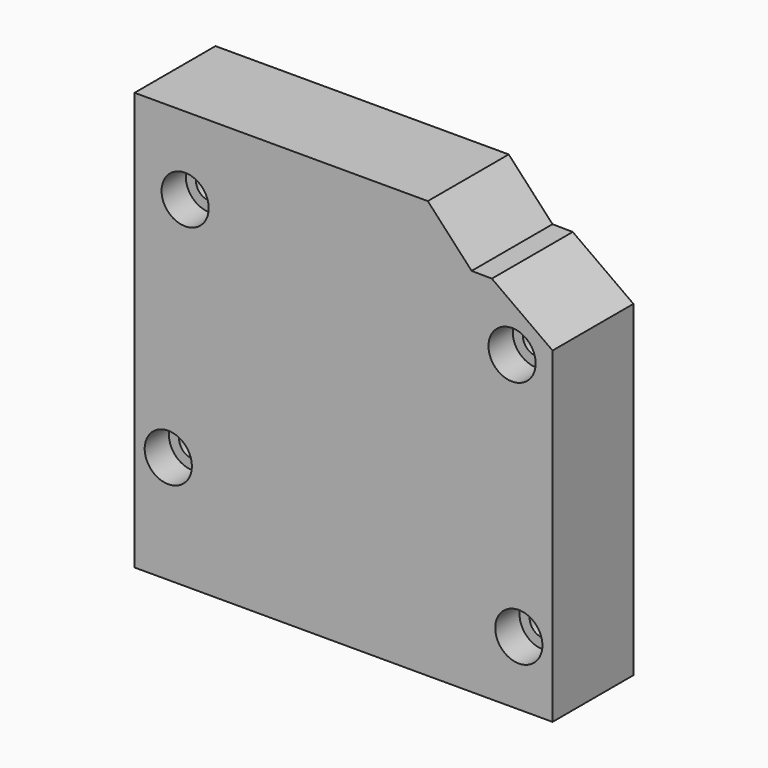
from build123d import *

# Parameters (mm, degrees)
F1_DEPTH       = 30
F3_D           = 8
F3_DEPTH       = 45
F3_CBORE_D     = 14
F3_CBORE_DEPTH = 9
F5_R           = 21
F6_DEPTH       = 25


with BuildPart() as f1:
    # F0 (on Front) → F1 (new body)
    with BuildSketch(Plane.XZ):
        Polygon((87, 0), (0, 0), (0, -124), (124, -124), (124, -27), (106, -14.071459), (100, -14), align=None)
    extrude(amount=F1_DEPTH)

    # F3
    with Locations(Plane.XZ.offset(30)):
        with Locations((15, -23), (10, -92), (112, -32), (114, -105)):
            CounterBoreHole(F3_D / 2, F3_CBORE_D / 2, F3_CBORE_DEPTH, depth=F3_DEPTH)

    # F5 (on face) → F6 (cut)
    with BuildSketch(Plane(origin=(0, 0, 0), x_dir=(-1, 0, 0), z_dir=(0, 1, 0))):
        with Locations((-61.409097, -64.425051)):
            Circle(F5_R)
    extrude(amount=-F6_DEPTH, mode=Mode.SUBTRACT)


solid = f1.part
